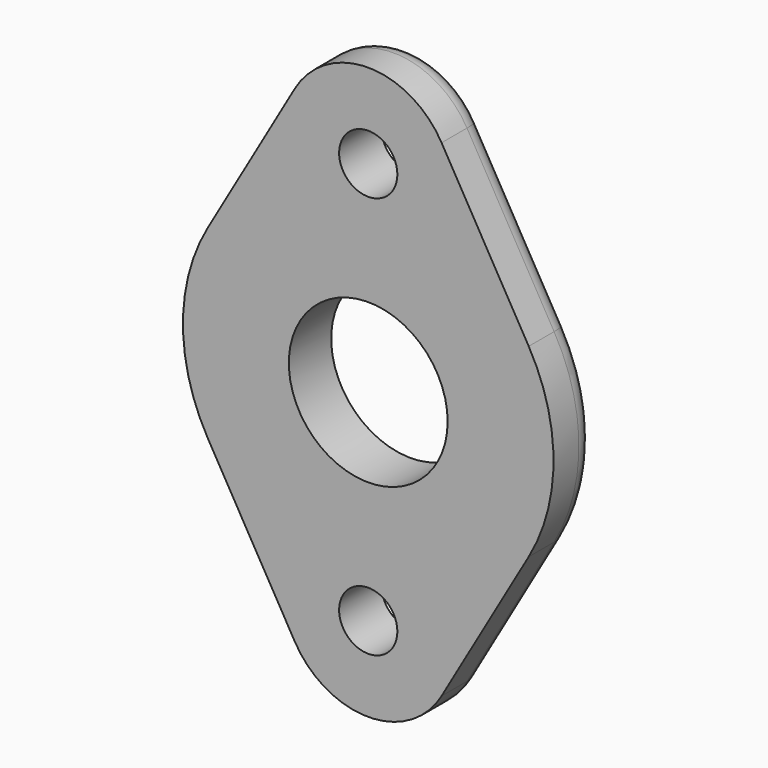
from build123d import *

# Parameters (mm, degrees)
F0_R     = 2.75
F0_R_2   = 7.5
F1_DEPTH = 5
F2_R     = 2


with BuildPart() as f1:
    # F0 (on Front) → F1 (new body)
    with BuildSketch(Plane.XZ):
        with BuildLine():
            Line((-6.928203, 23), (-15.155445, 8.75))
            ThreePointArc((-15.155445, 8.75), (-17.5, 0), (-15.155445, -8.75))
            Line((-15.155445, -8.75), (-6.928203, -23))
            ThreePointArc((-6.928203, -23), (0, -27), (6.928203, -23))
            Line((6.928203, -23), (15.155445, -8.75))
            ThreePointArc((15.155445, -8.75), (17.5, 0), (15.155445, 8.75))
            Line((15.155445, 8.75), (6.928203, 23))
            ThreePointArc((6.928203, 23), (0, 27), (-6.928203, 23))
        make_face()
        with Locations((0, -19)):
            Circle(F0_R, mode=Mode.SUBTRACT)
        Circle(F0_R_2, mode=Mode.SUBTRACT)
        with Locations((0, 19)):
            Circle(F0_R, mode=Mode.SUBTRACT)
    extrude(amount=F1_DEPTH)

    # F2
    f2_edges = [f1.edges().sort_by_distance(p)[0] for p in [
        (11.041824, 0, 15.875),
    ]]
    fillet(f2_edges, radius=F2_R)


solid = f1.part
